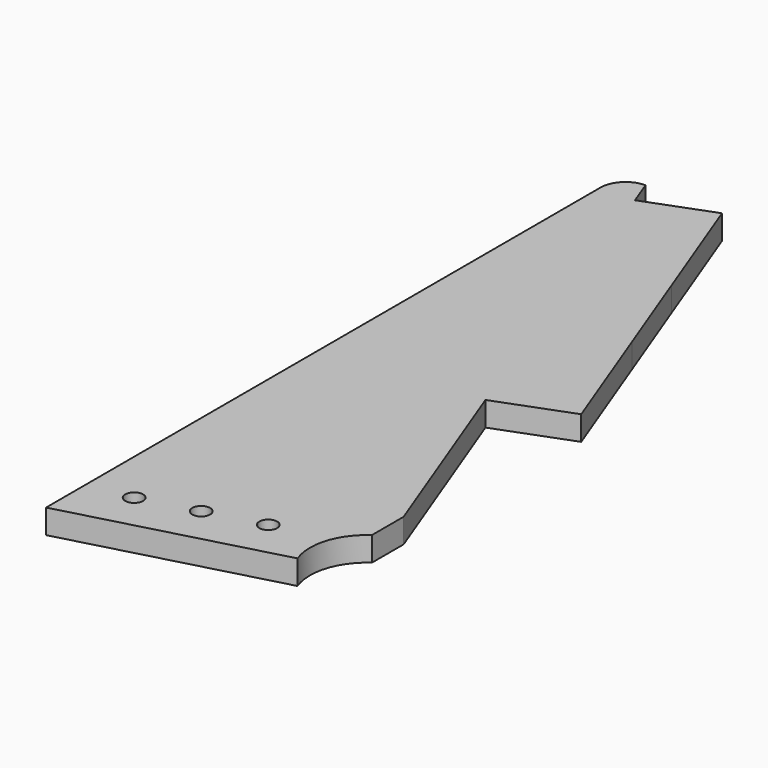
from build123d import *

# Parameters (mm, degrees)
F1_DEPTH = 1.7018


with BuildPart() as f1:
    # F0 (on Top) → F1 (new body)
    with BuildSketch(Plane.XY):
        with BuildLine():
            Line((-13.194016, 9.354334), (-13.856456, 11.104334))
            ThreePointArc((-13.856456, 11.104334), (-15.093893, 10.591771), (-15.606456, 9.354334))
            Line((-15.606456, 9.354334), (-15.606456, -36.036127))
            Line((-15.606456, -36.036127), (-15.606456, -39.141956))
            Line((-15.606456, -39.141956), (-1.117569, -35.25967))
            ThreePointArc((-1.117569, -35.25967), (-1.198453, -32.663077), (0.332721, -30.564424))
            Line((0.332721, -30.564424), (0.332721, -27.792238))
            Line((0.332721, -27.792238), (-4.811083, -14.203604))
            Line((-4.811083, -14.203604), (0.332721, -12.256482))
            Line((0.332721, -12.256482), (-2.853478, -3.839349))
            Line((-2.853478, -3.839349), (-5.331632, 2.707311))
            Line((-5.331632, 2.707311), (-8.510218, 11.104334))
            Line((-8.510218, 11.104334), (-8.570957, 11.104334))
            Line((-8.570957, 11.104334), (-13.194016, 9.354334))
        make_face()
        with BuildLine():
            ThreePointArc((-11.951597, -35.224279), (-12.495019, -35.843932), (-13.180301, -35.386041))
            ThreePointArc((-13.180301, -35.386041), (-12.738359, -34.620576), (-11.972894, -35.062517))
            ThreePointArc((-11.972894, -35.062517), (-11.956944, -35.1427), (-11.951597, -35.224279))
        make_face(mode=Mode.SUBTRACT)
        with BuildLine():
            ThreePointArc((-8.087894, -34.189003), (-8.631315, -34.808656), (-9.316598, -34.350765))
            ThreePointArc((-9.316598, -34.350765), (-8.874656, -33.585299), (-8.10919, -34.027241))
            ThreePointArc((-8.10919, -34.027241), (-8.093241, -34.107424), (-8.087894, -34.189003))
        make_face(mode=Mode.SUBTRACT)
        with BuildLine():
            ThreePointArc((-4.224191, -33.153727), (-4.767612, -33.77338), (-5.452894, -33.315489))
            ThreePointArc((-5.452894, -33.315489), (-4.93077, -32.534074), (-4.224191, -33.153727))
        make_face(mode=Mode.SUBTRACT)
        with BuildLine():
            Line((-13.194016, 9.354334), (-13.856456, 11.104334))
            ThreePointArc((-13.856456, 11.104334), (-15.093893, 10.591771), (-15.606456, 9.354334))
            Line((-15.606456, 9.354334), (-15.606456, -36.036127))
            Line((-15.606456, -36.036127), (-15.606456, -39.141956))
            Line((-15.606456, -39.141956), (-1.117569, -35.25967))
            ThreePointArc((-1.117569, -35.25967), (-1.198453, -32.663077), (0.332721, -30.564424))
            Line((0.332721, -30.564424), (0.332721, -27.792238))
            Line((0.332721, -27.792238), (-4.811083, -14.203604))
            Line((-4.811083, -14.203604), (0.332721, -12.256482))
            Line((0.332721, -12.256482), (-2.853478, -3.839349))
            Line((-2.853478, -3.839349), (-5.331632, 2.707311))
            Line((-5.331632, 2.707311), (-8.510218, 11.104334))
            Line((-8.510218, 11.104334), (-8.570957, 11.104334))
            Line((-8.570957, 11.104334), (-13.194016, 9.354334))
        make_face()
        with BuildLine():
            ThreePointArc((-11.951597, -35.224279), (-12.495019, -35.843932), (-13.180301, -35.386041))
            ThreePointArc((-13.180301, -35.386041), (-12.738359, -34.620576), (-11.972894, -35.062517))
            ThreePointArc((-11.972894, -35.062517), (-11.956944, -35.1427), (-11.951597, -35.224279))
        make_face(mode=Mode.SUBTRACT)
        with BuildLine():
            ThreePointArc((-8.087894, -34.189003), (-8.631315, -34.808656), (-9.316598, -34.350765))
            ThreePointArc((-9.316598, -34.350765), (-8.874656, -33.585299), (-8.10919, -34.027241))
            ThreePointArc((-8.10919, -34.027241), (-8.093241, -34.107424), (-8.087894, -34.189003))
        make_face(mode=Mode.SUBTRACT)
        with BuildLine():
            ThreePointArc((-4.224191, -33.153727), (-4.767612, -33.77338), (-5.452894, -33.315489))
            ThreePointArc((-5.452894, -33.315489), (-4.93077, -32.534074), (-4.224191, -33.153727))
        make_face(mode=Mode.SUBTRACT)
    extrude(amount=F1_DEPTH)


solid = f1.part
